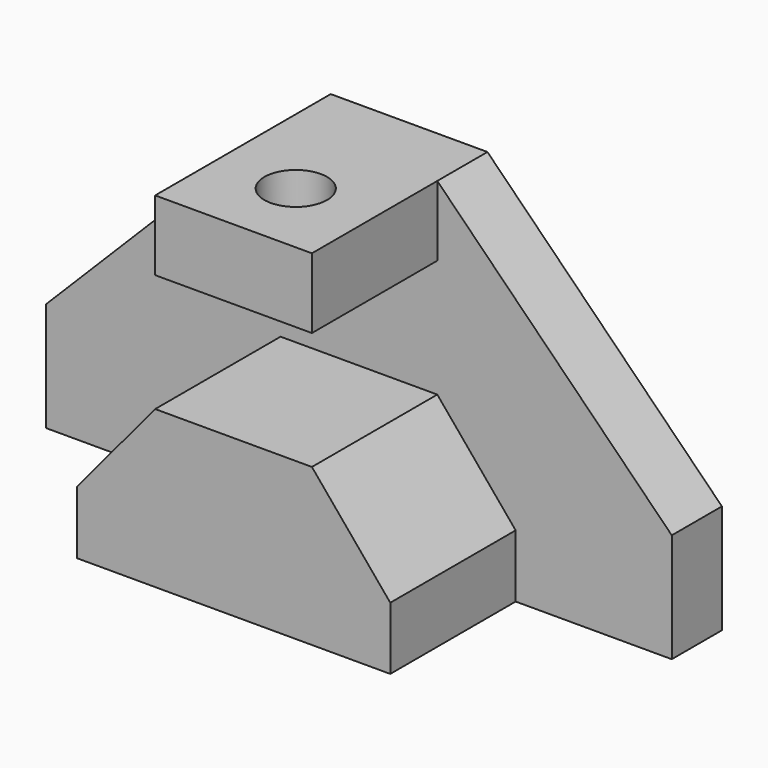
from build123d import *

# Parameters (mm, degrees)
F1_DEPTH = 12.7
F2_W     = 31.75
F2_H     = 14.224
F3_DEPTH = 31.75
F4_R     = 6.35
F5_DEPTH = 25.4


with BuildPart() as f1:
    # F0 (on Front) → F1 (new body)
    with BuildSketch(Plane.XZ):
        Polygon((-32.059978, -10.644176), (-32.059978, -32.742176), (94.686022, -32.742176), (94.686022, -10.644176), (47.188022, 37.107824), (15.438022, 37.107824), align=None)
    extrude(amount=F1_DEPTH)

    # F2 (on face) → F3 (join)
    with BuildSketch(Plane.XZ.offset(12.7)):
        with Locations((31.313022, 29.995824)):
            Rectangle(F2_W, F2_H)
        Polygon((-0.436978, -20.042176), (-0.436978, -32.742176), (63.063022, -32.742176), (63.063022, -20.042176), (47.188022, -0.992176), (15.438022, -0.992176), align=None)
    extrude(amount=F3_DEPTH)

    # F4 (on face) → F5 (cut)
    with BuildSketch(Plane.XY.offset(37.107824)):
        with Locations((31.313022, -28.702)):
            Circle(F4_R)
    extrude(amount=-F5_DEPTH, mode=Mode.SUBTRACT)


solid = f1.part
